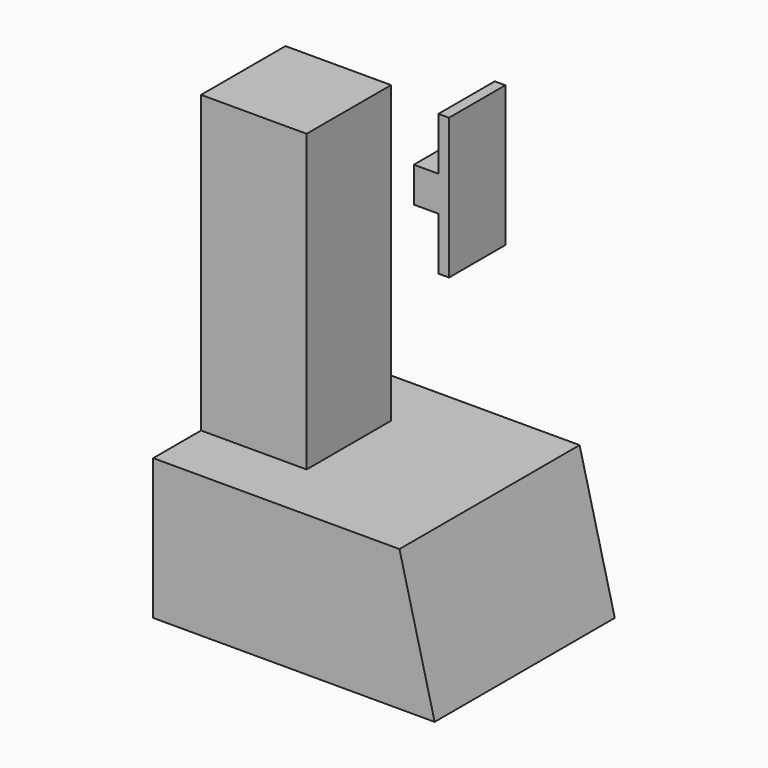
from build123d import *

# Parameters (mm, degrees)
F1_DEPTH = 320
F2_W     = 150
F2_H     = 150
F3_DEPTH = 420
F4_W     = 100
F4_H     = 75
F4_H_2   = 50
F5_DEPTH = 15
F6_DEPTH = 35


with BuildPart() as f1:
    # F0 (on Front) → F1 (new body)
    with BuildSketch(Plane.XZ):
        Polygon((0, 200), (0, 0), (400, 0), (350, 200), align=None)
    extrude(amount=-F1_DEPTH)

    # F2 (on face) → F3 (join)
    with BuildSketch(Plane.XY.offset(200)):
        with Locations((75, 160)):
            Rectangle(F2_W, F2_H)
    extrude(amount=F3_DEPTH)


with BuildPart() as f5:
    # F4 (on face) → F5 (new body)
    with BuildSketch(Plane.YZ.offset(150)):
        with Locations((369.25047, 512.267625)):
            Rectangle(F4_W, F4_H)
        with Locations((369.25047, 387.267625)):
            Rectangle(F4_W, F4_H)
        with Locations((369.25047, 449.767625)):
            Rectangle(F4_W, F4_H_2)
    extrude(amount=F5_DEPTH)

    # F4 (on face) → F6 (join)
    with BuildSketch(Plane.YZ.offset(150)):
        with Locations((369.25047, 449.767625)):
            Rectangle(F4_W, F4_H_2)
    extrude(amount=-F6_DEPTH)


solid = Compound([f1.part, f5.part])
